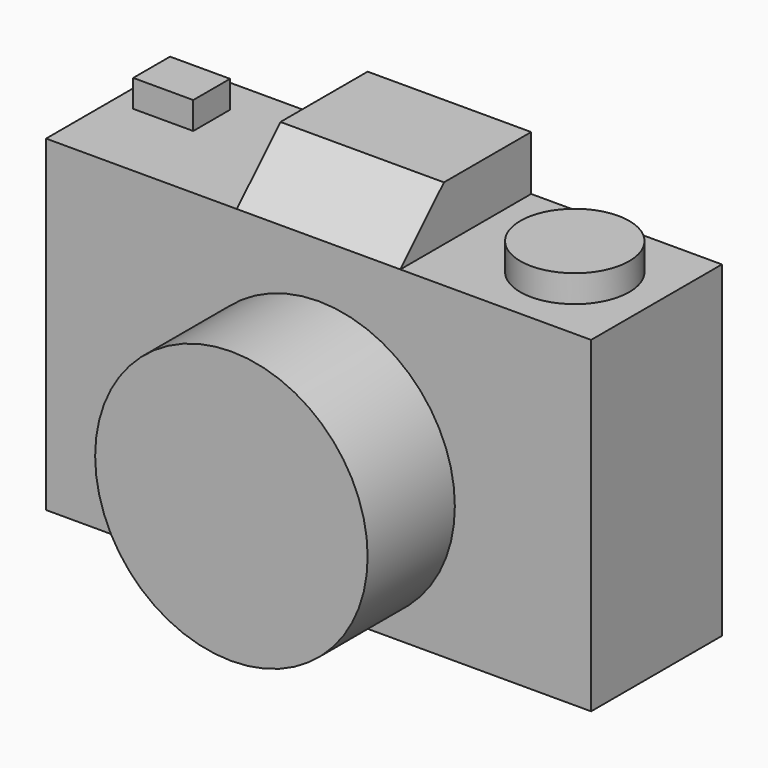
from build123d import *

# Parameters (mm, degrees)
F0_W      = 100
F0_H      = 50
F1_DEPTH  = 15
F3_R      = 25
F4_DEPTH  = 20
F2_W      = 30
F2_H      = 10
F5_DEPTH  = 100
F6_R      = 10
F7_DEPTH  = 5
F8_W      = 11.012334
F8_H      = 8.445302
F9_DEPTH  = 5
F10_W     = 30
F10_H     = 30
F11_DEPTH = 10
F13_DEPTH = 65.001


with BuildPart() as f1:
    # F0 (on Front) → F1 (new body, symmetric)
    with BuildSketch(Plane.XZ):
        Rectangle(F0_W, F0_H)
    extrude(amount=F1_DEPTH, both=True)

    # F3 (on face) → F4 (join)
    with BuildSketch(Plane.XZ.offset(15)):
        Circle(F3_R)
    extrude(amount=F4_DEPTH)

    # F2 (on face) → F5 (join)
    with BuildSketch(Plane.YZ.offset(50)):
        with Locations((0, 30)):
            Rectangle(F2_W, F2_H)
    extrude(amount=-F5_DEPTH)

    # F6 (on face) → F7 (join)
    with BuildSketch(Plane.XY.offset(35)):
        with Locations((35, 0)):
            Circle(F6_R)
    extrude(amount=F7_DEPTH)

    # F8 (on face) → F9 (join)
    with BuildSketch(Plane.XY.offset(35)):
        with Locations((-40.506167, 4.222651)):
            Rectangle(F8_W, F8_H)
    extrude(amount=F9_DEPTH)

    # F10 (on face) → F11 (join)
    with BuildSketch(Plane.XY.offset(35)):
        Rectangle(F10_W, F10_H)
    extrude(amount=F11_DEPTH)

    # F12 (on face) → F13 (cut, through all)
    with BuildSketch(Plane.YZ.offset(15)):
        Polygon((-15, 45), (-15, 35), (-5, 45), align=None)
    extrude(amount=-F13_DEPTH, mode=Mode.SUBTRACT)


solid = f1.part
